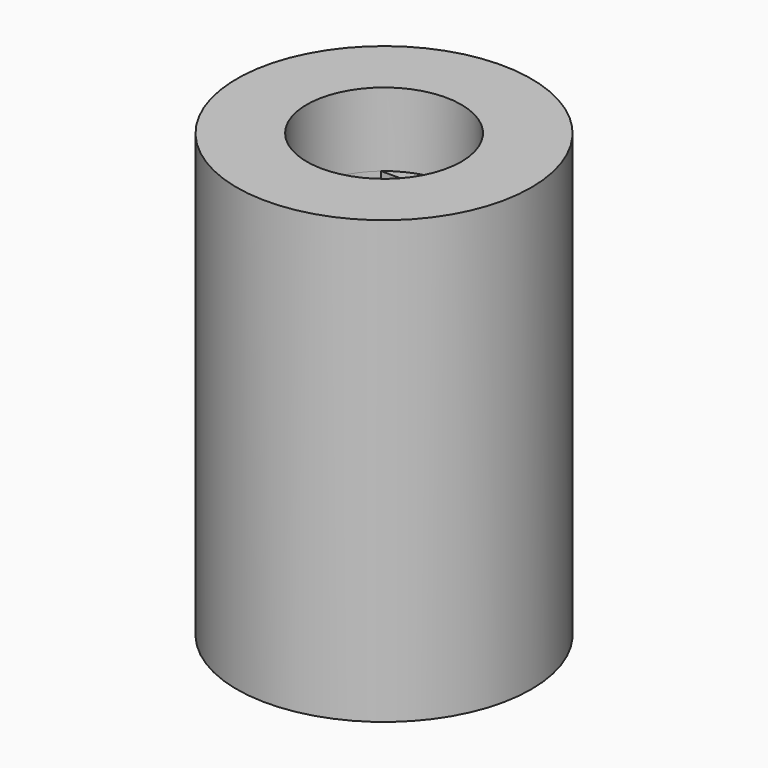
from build123d import *

# Parameters (mm, degrees)
SKETCH271_R     = 4
PAD109_DEPTH    = 10
SKETCH272_R     = 4
SKETCH272_R_2   = 2.1
PAD110_DEPTH    = 2
SKETCH273_R     = 1.5
POCKET132_DEPTH = 4.001


with BuildPart() as part:
    # Sketch271 → Pad109 (new body)
    with BuildSketch(Plane.XY):
        Circle(SKETCH271_R)
        with BuildLine():
            Line((-1.360147, 1.6), (1.360147, 1.6))
            ThreePointArc((-1.360147, 1.6), (0, -2.1), (1.360147, 1.6))
        make_face(mode=Mode.SUBTRACT)
    extrude(amount=PAD109_DEPTH)

    # Sketch272 (on Face5 of Pad109) → Pad110 (join)
    with BuildSketch(Plane.XY.offset(10)):
        Circle(SKETCH272_R)
        Circle(SKETCH272_R_2, mode=Mode.SUBTRACT)
    extrude(amount=PAD110_DEPTH)

    # Sketch273 → Pocket132 (cut, through all)
    with BuildSketch(Plane.XZ):
        with Locations((0, 8.5)):
            Circle(SKETCH273_R)
    extrude(amount=-POCKET132_DEPTH, mode=Mode.SUBTRACT)


with BuildPart() as part_1:
    # Body097 placement: moved
    add(part.part.moved(Location((0, 11, 0))))


solid = part_1.part
